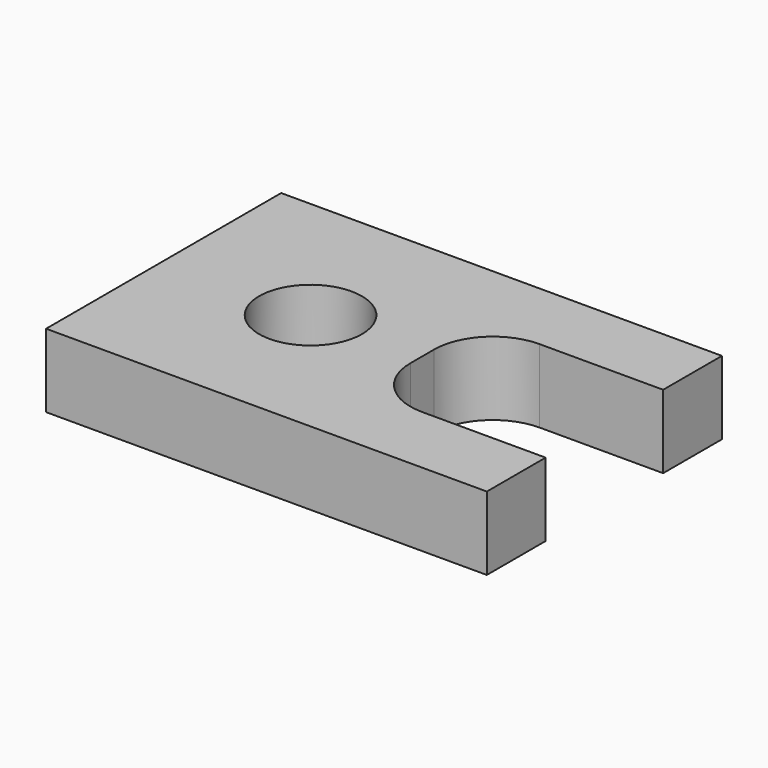
from build123d import *

# Parameters (mm, degrees)
F0_R     = 1.75
F1_DEPTH = 2.5
F2_R     = 2
F3_R     = 2


with BuildPart() as f1:
    # F0 (on Top) → F1 (new body)
    with BuildSketch(Plane.XY):
        Polygon((10, 5), (-5, 5), (-5, -5), (10, -5), (10, -2.5), (3.8, -2.5), (3.8, 2.5), (10, 2.5), align=None)
        Circle(F0_R, mode=Mode.SUBTRACT)
    extrude(amount=F1_DEPTH)

    # F2
    f2_edges = [f1.edges().sort_by_distance(p)[0] for p in [
        (3.8, 2.5, 1.25),
    ]]
    fillet(f2_edges, radius=F2_R)

    # F3
    f3_edges = [f1.edges().sort_by_distance(p)[0] for p in [
        (3.8, -2.5, 1.25),
    ]]
    fillet(f3_edges, radius=F3_R)


solid = f1.part
